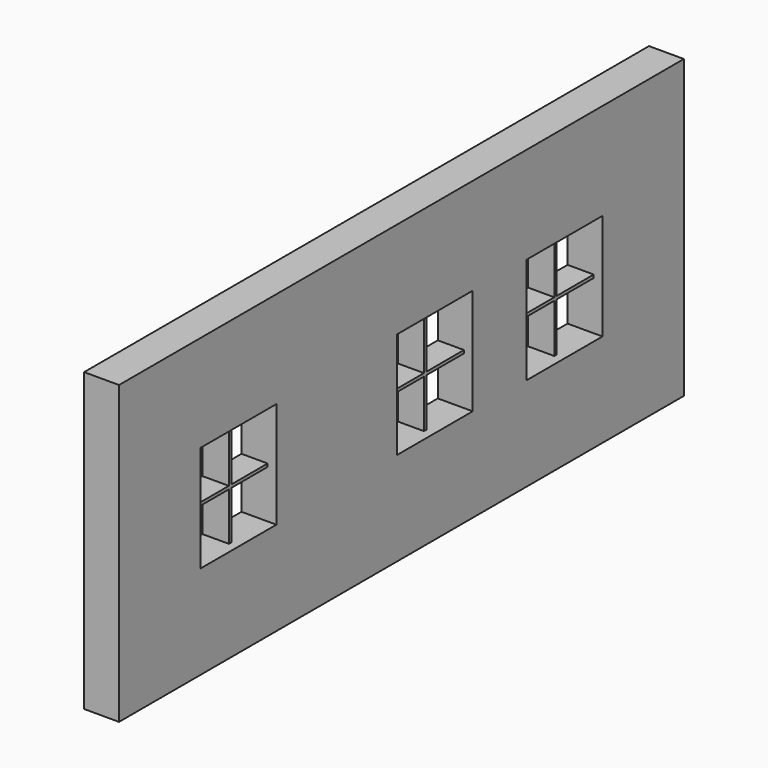
from build123d import *

# Parameters (mm, degrees)
F0_W     = 80.9055268764
F0_H     = 33.9866913855
F0_W_2   = 10.8759109862
F0_H_2   = 12.1689303778
F1_DEPTH = 4
F2_W     = 0.3491770476
F2_H     = 6.234886474
F2_H_2   = 0.3491770476
F2_W_2   = 5.8245249093
F2_W_3   = 6.0446602292
F2_H_3   = 5.6342986645
F2_H_4   = 6.2502783258
F2_W_4   = 5.5541850161
F2_W_5   = 6.3150001224
F2_H_5   = 5.6189068127
F2_H_6   = 6.2450254336
F2_W_6   = 5.9638470411
F2_W_7   = 5.9053380974
F2_H_7   = 5.6241597049
F3_DEPTH = 3


with BuildPart() as f1:
    # F0 (on Right) → F1 (new body)
    with BuildSketch(Plane.YZ):
        with Locations((-1.8206872046, -0.8066575974)):
            Rectangle(F0_W, F0_H)
        with Locations((-25.1731462777, -0.9812214412)):
            Rectangle(F0_W_2, F0_H_2, mode=Mode.SUBTRACT)
        with Locations((2.9457443161, -0.9749308228)):
            Rectangle(F0_W_2, F0_H_2, mode=Mode.SUBTRACT)
        with Locations((21.5317718685, -0.9812214412)):
            Rectangle(F0_W_2, F0_H_2, mode=Mode.SUBTRACT)
    extrude(amount=F1_DEPTH)

    # F2 (on Right) → F3 (join)
    with BuildSketch(Plane.YZ):
        with Locations((-25.1156752929, 1.9016608712)):
            Rectangle(F2_W, F2_H)
        with Locations((-25.1156752929, -1.3903708896)):
            Rectangle(F2_W, F2_H_2)
        with Locations((-28.2025262713, -1.3903708896)):
            Rectangle(F2_W_2, F2_H_2)
        with Locations((-21.9187566545, -1.3903708896)):
            Rectangle(F2_W_3, F2_H_2)
        with Locations((-25.1156752929, -4.3821087456)):
            Rectangle(F2_W, F2_H_3)
        with Locations((2.8287735768, 1.9251391059)):
            Rectangle(F2_W, F2_H_4)
        with Locations((2.8287735768, -1.3745885808)):
            Rectangle(F2_W, F2_H_2)
        with Locations((-0.1229074551, -1.3745885808)):
            Rectangle(F2_W_4, F2_H_2)
        with Locations((6.1608621618, -1.3745885808)):
            Rectangle(F2_W_5, F2_H_2)
        with Locations((2.8287735768, -4.358630511)):
            Rectangle(F2_W, F2_H_5)
        with Locations((21.4960975572, 1.9813878462)):
            Rectangle(F2_W, F2_H_6)
        with Locations((21.4960975572, -1.3157133944)):
            Rectangle(F2_W, F2_H_2)
        with Locations((18.3395855129, -1.3157133944)):
            Rectangle(F2_W_6, F2_H_2)
        with Locations((24.6233551297, -1.3157133944)):
            Rectangle(F2_W_7, F2_H_2)
        with Locations((21.4960975572, -4.3023817707)):
            Rectangle(F2_W, F2_H_7)
    extrude(amount=F3_DEPTH)


solid = f1.part
